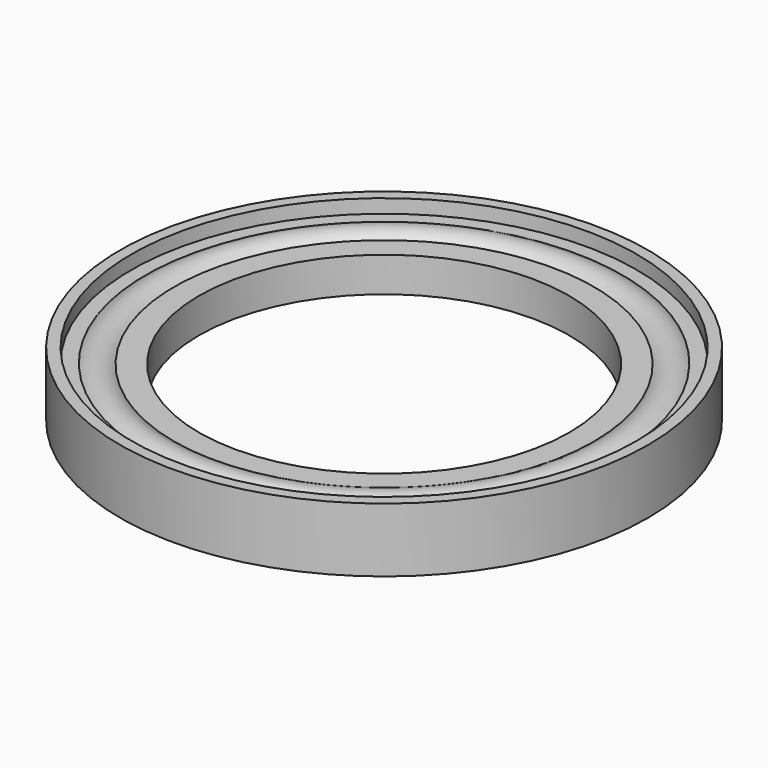
from build123d import *


with BuildPart() as f1:
    # F0 (on Front) → F1 (revolve)
    with BuildSketch(Plane.XZ):
        with BuildLine():
            Line((28.8, 0), (28.8, 7))
            Line((28.8, 7), (27.57, 7))
            Line((27.57, 7), (27.57, 5.5))
            Line((27.57, 5.5), (26.01, 5.5))
            ThreePointArc((26.01, 5.5), (26.746068, 4.618034), (27.01, 3.5))
            ThreePointArc((27.01, 3.5), (26.746068, 2.381966), (26.01, 1.5))
            Line((26.01, 1.5), (27.57, 1.5))
            Line((27.57, 1.5), (27.57, 0))
            Line((27.57, 0), (28.8, 0))
        make_face()
    revolve(axis=Axis((0, 0, 3.5), (0, 0, -1)))


with BuildPart() as f2:
    # F0 (on Front) → F2 (revolve)
    with BuildSketch(Plane.XZ):
        with BuildLine():
            ThreePointArc((22.885192, 1.6), (22.01, 3.5), (22.885192, 5.4))
            Line((22.885192, 5.4), (20.2, 5.4))
            Line((20.2, 5.4), (20.2, 1.6))
            Line((20.2, 1.6), (22.885192, 1.6))
        make_face()
    revolve(axis=Axis((0, 0, 3.5), (0, 0, -1)))


with BuildPart() as f3:
    # F0 (on Front) → F3 (revolve)
    with BuildSketch(Plane.XZ):
        with BuildLine():
            ThreePointArc((27.01, 3.5), (26.746068, 4.618034), (26.01, 5.5))
            ThreePointArc((26.01, 5.5), (24.430036, 5.998721), (22.885192, 5.4))
            ThreePointArc((22.885192, 5.4), (22.01, 3.5), (22.885192, 1.6))
            ThreePointArc((22.885192, 1.6), (24.430036, 1.001279), (26.01, 1.5))
            ThreePointArc((26.01, 1.5), (26.746068, 2.381966), (27.01, 3.5))
        make_face()
    revolve(axis=Axis((0, 0, 3.5), (0, 0, -1)))


solid = Compound([f1.part, f2.part, f3.part])
